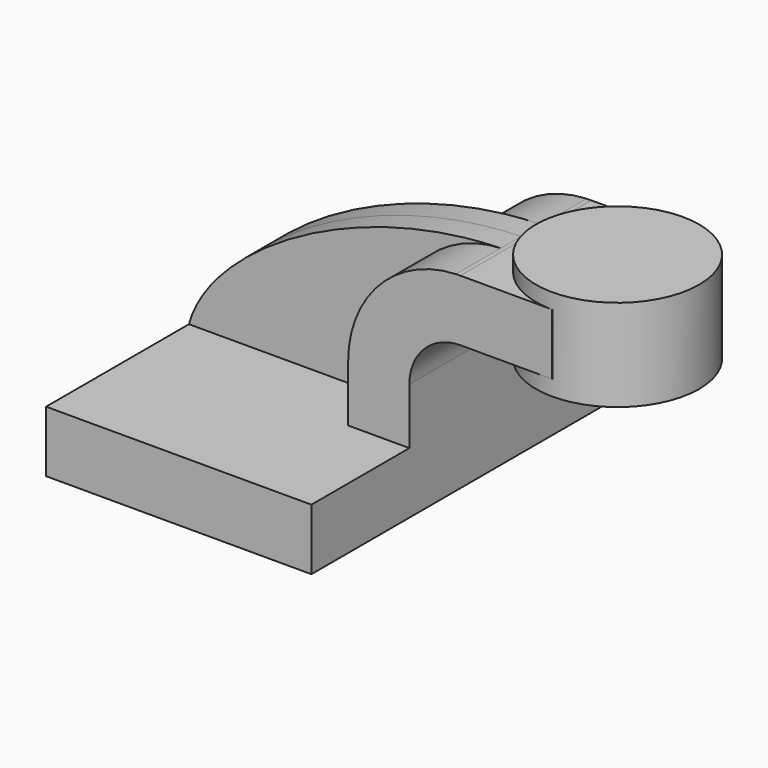
from build123d import *

# Parameters (mm, degrees)
F1_DEPTH = 63.5
F0_W     = 25.4
F0_H     = 19.05
F2_DEPTH = 25.4
F3_DEPTH = 7.9375


with BuildPart() as f1:
    # F0 (on Front) → F1 (new body, symmetric)
    with BuildSketch(Plane.XZ):
        Polygon((-41.275, -9.525), (41.275, -9.525), (41.275, 9.525), (22.225, 9.525), (-41.275, 9.525), align=None)
    extrude(amount=F1_DEPTH, both=True)

    # F0 (on Front) → F2 (join, symmetric)
    with BuildSketch(Plane.XZ):
        with BuildLine():
            Line((22.225, 9.525), (41.275, 9.525))
            Line((41.275, 9.525), (41.275, 27.0002))
            ThreePointArc((41.275, 27.0002), (45.9246798487, 38.2255201513), (57.15, 42.8752))
            Line((57.15, 42.8752), (60.325, 42.8752))
            Line((60.325, 42.8752), (60.325, 61.9252))
            Line((60.325, 61.9252), (57.15, 61.9252))
            add(Edge.make_bspline(
                [(55.736210138, 61.8965726371), (56.2071847763, 61.9087688492), (56.6784597791, 61.9183213431), (57.15, 61.9252)],
                knots=[110.3931968845, 110.3931968845, 110.3931968845, 110.3931968845, 111.5045361635, 111.5045361635, 111.5045361635, 111.5045361635], degree=3))
            ThreePointArc((55.736210138, 61.8965726371), (31.9594041761, 51.1908905035), (22.225, 27.0002))
            Line((22.225, 27.0002), (22.225, 9.525))
        make_face()
        with Locations((73.025, 52.4002)):
            Rectangle(F0_W, F0_H)
    extrude(amount=F2_DEPTH, both=True)

    # F0 (on Front) → F3 (join, symmetric)
    with BuildSketch(Plane.XZ):
        with BuildLine():
            add(Edge.make_bspline(
                [(-41.275, 9.525), (-34.8671501802, 33.3876511946), (8.9526608143, 60.6850804595), (55.736210138, 61.8965726371)],
                knots=[0, 0, 0, 0, 110.3931968845, 110.3931968845, 110.3931968845, 110.3931968845], degree=3))
            Line((-41.275, 9.525), (22.225, 9.525))
            Line((22.225, 9.525), (22.225, 27.0002))
            ThreePointArc((22.225, 27.0002), (31.9594041761, 51.1908905035), (55.736210138, 61.8965726371))
        make_face()
    extrude(amount=F3_DEPTH, both=True)


with BuildPart() as f4:
    # F0 (on Front) → F4 (revolve)
    with BuildSketch(Plane.XZ):
        Polygon((85.725, 61.9252), (85.725, 42.8752), (85.725, 38.1), (111.125, 38.1), (111.125, 66.675), (85.725, 66.675), align=None)
    revolve(axis=Axis((85.725, 0, 52.4002), (0, 0, 1)))


solid = Compound([f1.part, f4.part])
